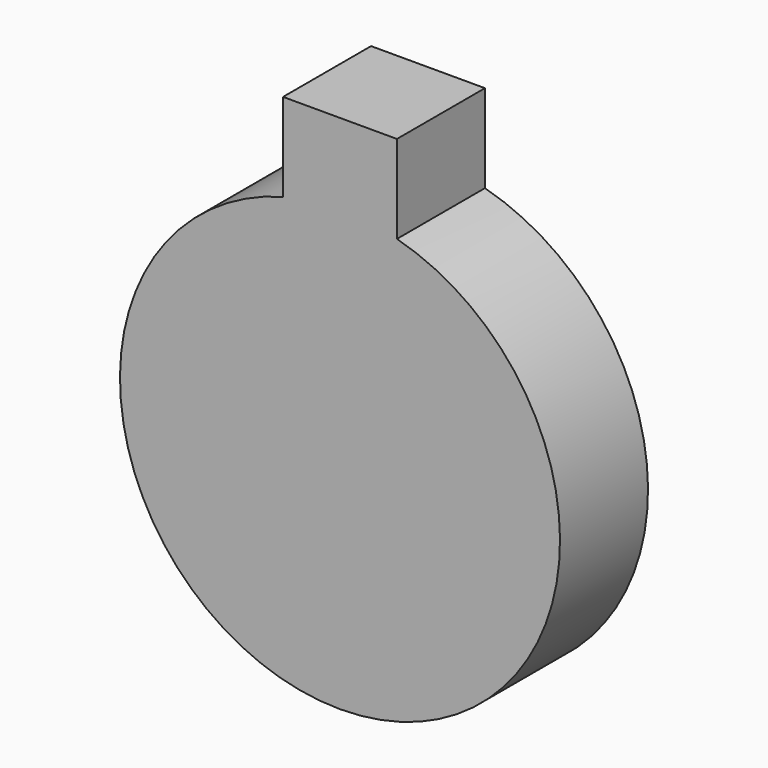
from build123d import *

# Parameters (mm, degrees)
F0_R     = 25.4
F1_DEPTH = 6.35
F3_DEPTH = 12.7


with BuildPart() as f1:
    # F0 (on Front) → F1 (new body, symmetric)
    with BuildSketch(Plane.XZ):
        Circle(F0_R)
    extrude(amount=F1_DEPTH, both=True)

    # F2 (on face) → F3 (join)
    with BuildSketch(Plane.XZ.offset(6.35)):
        with BuildLine():
            ThreePointArc((-6.574004, 24.534516), (-3.315365, 25.182699), (0, 25.4))
            ThreePointArc((0, 25.4), (3.315365, 25.182699), (6.574004, 24.534516))
            Line((6.574004, 24.534516), (6.574004, 34.694516))
            Line((6.574004, 34.694516), (-6.574004, 34.694516))
            Line((-6.574004, 34.694516), (-6.574004, 24.534516))
        make_face()
    extrude(amount=-F3_DEPTH)


solid = f1.part
